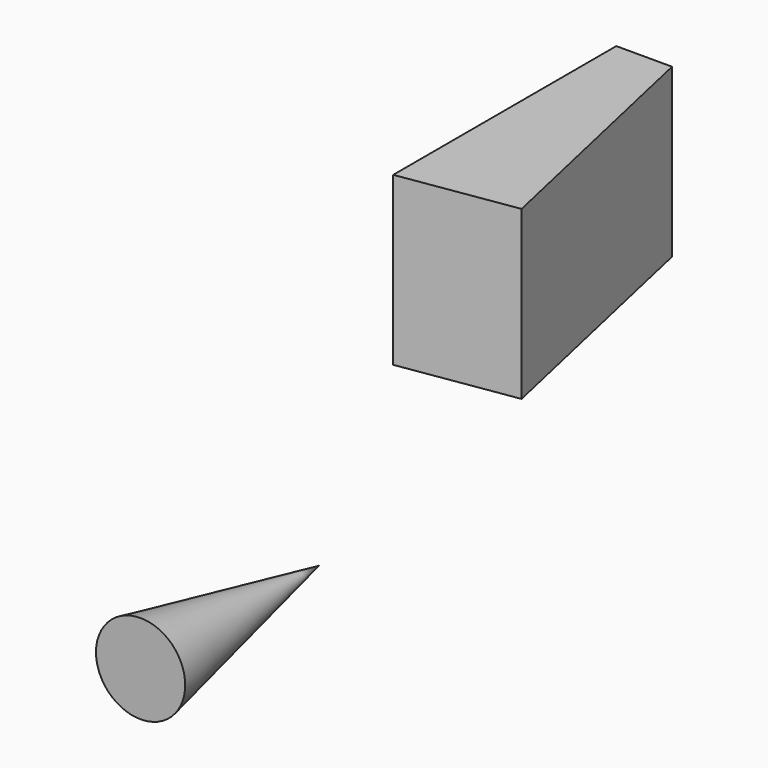
from build123d import *

# Parameters (mm, degrees)
F3_DEPTH = 15


with BuildPart() as f1:
    # F0 (on Top) → F1 (revolve)
    with BuildSketch(Plane.XY):
        Polygon((-37.156225, 2.156044), (-41.156225, -17.843956), (-37.156225, -17.843956), align=None)
    revolve(axis=Axis((-37.156225, -7.843956, 0), (0, 1, 0)))


with BuildPart() as f3:
    # F2 (on Top) → F3 (new body)
    with BuildSketch(Plane.XY):
        Polygon((-47.122306, 54.177161), (-52.122306, 54.177161), (-52.122306, 29.177161), (-41.876307, 30.757522), align=None)
    extrude(amount=F3_DEPTH)


solid = Compound([f1.part, f3.part])
